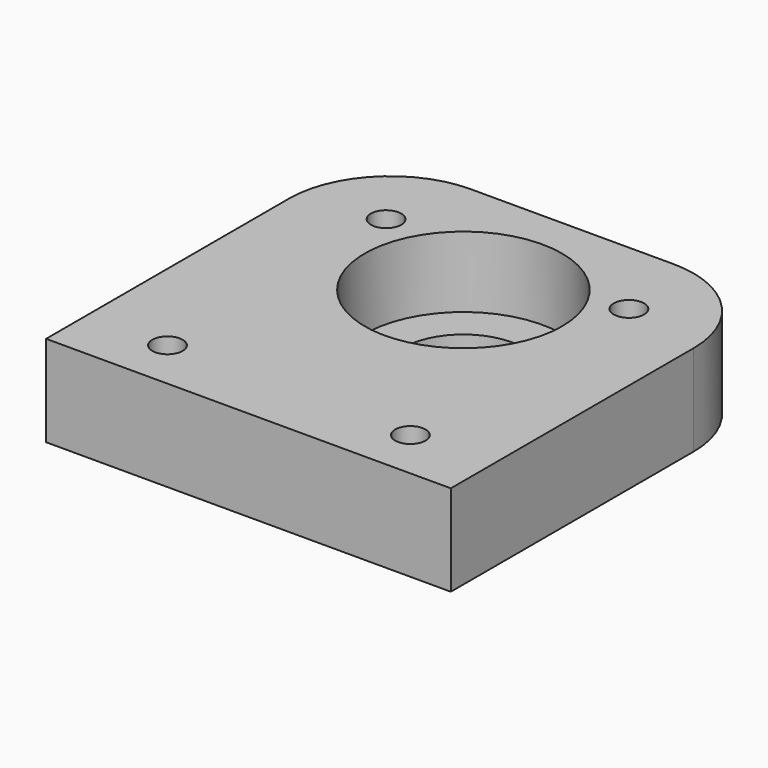
from build123d import *

# Parameters (mm, degrees)
SKETCH_W     = 40
SKETCH_H     = 40
SKETCH_R     = 6
SKETCH_R_2   = 1.5
PAD_DEPTH    = 9
SKETCH001_R  = 9.75
POCKET_DEPTH = 7
CHAMFER_SIZE = 2
FILLET_R     = 10


with BuildPart() as part:
    # Sketch → Pad (new body)
    with BuildSketch(Plane.XY):
        with Locations((0, 20)):
            Rectangle(SKETCH_W, SKETCH_H)
        with Locations((0.040094, 26.5)):
            Circle(SKETCH_R, mode=Mode.SUBTRACT)
        with Locations((-12, 32)):
            Circle(SKETCH_R_2, mode=Mode.SUBTRACT)
        with Locations((12, 32)):
            Circle(SKETCH_R_2, mode=Mode.SUBTRACT)
        with Locations((-12, 5)):
            Circle(SKETCH_R_2, mode=Mode.SUBTRACT)
        with Locations((12, 5)):
            Circle(SKETCH_R_2, mode=Mode.SUBTRACT)
    extrude(amount=PAD_DEPTH)

    # Sketch001 (on Face11 of Pad) → Pocket (cut)
    with BuildSketch(Plane.XY.offset(9)):
        with Locations((0.040094, 26.5)):
            Circle(SKETCH001_R)
    extrude(amount=-POCKET_DEPTH, mode=Mode.SUBTRACT)

    # Chamfer
    chamfer_edges = [part.edges().sort_by_distance(p)[0] for p in [
        (-13.5, 32, 0),
        (10.5, 32, 0),
        (10.5, 5, 0),
        (-13.5, 5, 0),
    ]]
    chamfer(chamfer_edges, length=CHAMFER_SIZE)

    # Fillet
    fillet_edges = [part.edges().sort_by_distance(p)[0] for p in [
        (20, 40, 4.5),
        (-20, 40, 4.5),
    ]]
    fillet(fillet_edges, radius=FILLET_R)


solid = part.part
